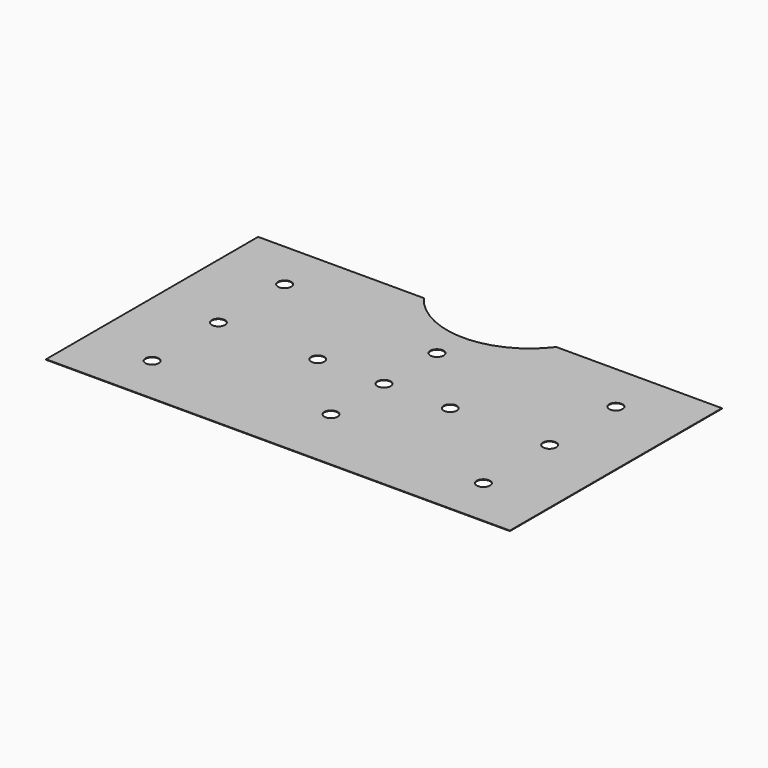
from build123d import *

# Parameters (mm, degrees)
F0_R     = 1.27
F1_DEPTH = 0.1


with BuildPart() as f1:
    # F0 (on Top) → F1 (new body)
    with BuildSketch(Plane.XY):
        with BuildLine():
            Line((0, 25.4), (0, 0))
            Line((0, 0), (44.45, 0))
            Line((44.45, 0), (88.9, 0))
            Line((88.9, 0), (88.9, 50.8))
            Line((88.9, 50.8), (57.15, 50.8))
            ThreePointArc((57.15, 50.8), (44.45, 44.45), (31.75, 50.8))
            Line((31.75, 50.8), (0, 50.8))
            Line((0, 50.8), (0, 25.4))
        make_face()
        with Locations((12.7, 9.525)):
            Circle(F0_R, mode=Mode.SUBTRACT)
        with BuildLine():
            ThreePointArc((13.97, 25.4), (12.7, 24.13), (11.43, 25.4))
            ThreePointArc((11.43, 25.4), (12.7, 26.67), (13.97, 25.4))
        make_face(mode=Mode.SUBTRACT)
        with Locations((31.75, 25.4)):
            Circle(F0_R, mode=Mode.SUBTRACT)
        with BuildLine():
            ThreePointArc((45.72, 12.7), (45.348026, 11.801974), (44.45, 11.43))
            ThreePointArc((44.45, 11.43), (43.551974, 13.598026), (45.72, 12.7))
        make_face(mode=Mode.SUBTRACT)
        with Locations((76.2, 9.525)):
            Circle(F0_R, mode=Mode.SUBTRACT)
        with Locations((44.45, 25.4)):
            Circle(F0_R, mode=Mode.SUBTRACT)
        with Locations((57.15, 25.4)):
            Circle(F0_R, mode=Mode.SUBTRACT)
        with Locations((76.2, 25.4)):
            Circle(F0_R, mode=Mode.SUBTRACT)
        with Locations((12.7, 41.275)):
            Circle(F0_R, mode=Mode.SUBTRACT)
        with Locations((44.45, 38.1)):
            Circle(F0_R, mode=Mode.SUBTRACT)
        with Locations((76.2, 41.275)):
            Circle(F0_R, mode=Mode.SUBTRACT)
    extrude(amount=F1_DEPTH)


solid = f1.part
